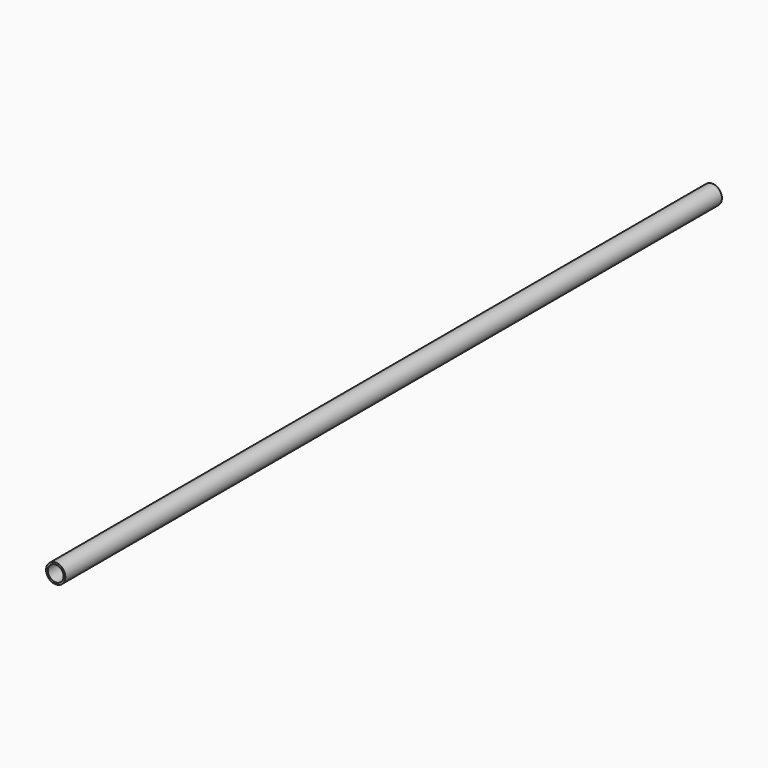
from build123d import *

# Parameters (mm, degrees)
F0_R     = 4.7625
F0_R_2   = 3.8735
F1_DEPTH = 405.008555
F2_ANGLE = 30
F3_ANGLE = 30


with BuildPart() as f1:
    # F0 (on Front) → F1 (new body)
    with BuildSketch(Plane.XZ):
        Circle(F0_R)
        Circle(F0_R_2, mode=Mode.SUBTRACT)
    extrude(amount=-F1_DEPTH)


with BuildPart() as f1_1:
    # F2: moved
    add(f1.part.rotate(Axis((0, 0, 0), (0, -1, 0)), F2_ANGLE))


with BuildPart() as f1_2:
    # F3: moved
    add(f1_1.part.rotate(Axis((0, 0, 0), (0, -1, 0)), F3_ANGLE))


solid = f1_2.part
